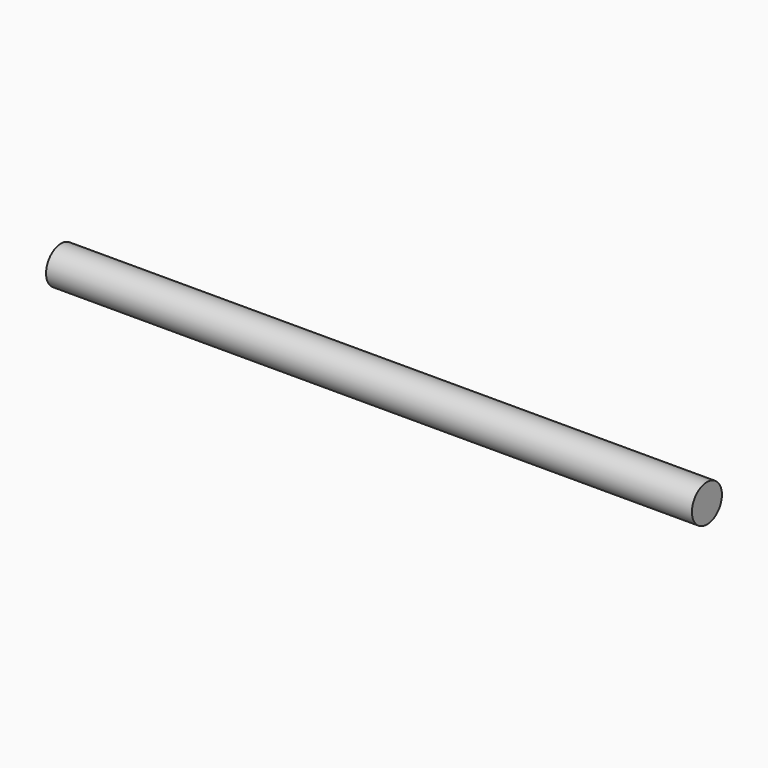
from build123d import *

# Parameters (mm, degrees)
F1_R     = 29
F4_D     = 6.35
F4_DEPTH = 29.001


with BuildPart() as f2:
    # F2: sweep along a path in F0
    with BuildLine(Plane.XZ) as f2_path:
        Line((0, 0), (1000, 0))
    # F1 (on Right) → F2 (sweep)
    with BuildSketch(Plane.YZ):
        Circle(F1_R)
    sweep(path=f2_path.line)

    # F4 (through all, one way)
    with BuildSketch(Plane.XZ):
        with Locations((500, 0)):
            Circle(F4_D / 2)
    extrude(amount=-F4_DEPTH, mode=Mode.SUBTRACT)


solid = f2.part
